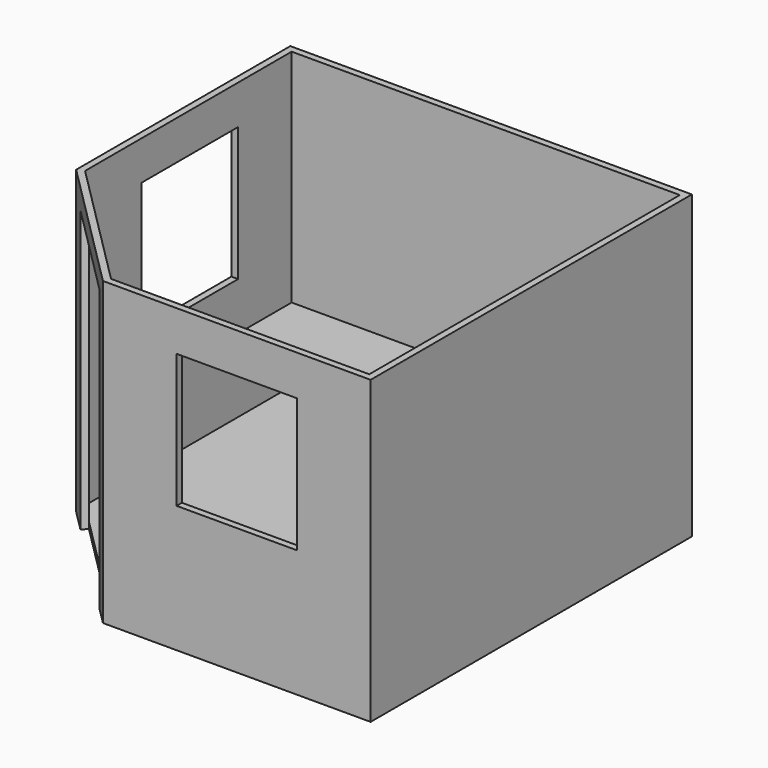
from build123d import *

# Parameters (mm, degrees)
F1_DEPTH  = 2200
F3_DEPTH  = 50
F4_W      = 1000
F4_H      = 2100
F5_DEPTH  = 50
F6_W      = 900
F6_H      = 1000
F7_DEPTH  = 50
F8_W      = 900
F8_H      = 1000
F9_DEPTH  = 50
F10_W     = 2900
F10_H     = 50
F11_DEPTH = 600


with BuildPart() as f1:
    # F0 (on Top) → F1 (new body)
    with BuildSketch(Plane.XY):
        Polygon((-66.648518, 1066.648518), (933.351482, 66.648518), (2933.351482, 66.648518), (2933.351482, 3066.648518), (-66.648518, 3066.648518), align=None)
        Polygon((2883.351482, 3016.648518), (2883.351482, 116.648518), (954.06216, 116.648518), (-16.648518, 1087.359196), (-16.648518, 3016.648518), align=None, mode=Mode.SUBTRACT)
    extrude(amount=F1_DEPTH)

    # F2 (on face) → F3 (join)
    with BuildSketch(Plane(origin=(0, 0, 0), x_dir=(1, 0, 0), z_dir=(0, 0, -1))):
        Polygon((2933.351482, -3066.648518), (2933.351482, -66.648518), (933.351482, -66.648518), (-66.648518, -1066.648518), (-66.648518, -3066.648518), align=None)
    extrude(amount=F3_DEPTH)

    # F4 (on face) → F5 (cut)
    with BuildSketch(Plane(origin=(500, 500, 0), x_dir=(0.707107, -0.707107, 0), z_dir=(-0.707107, -0.707107, 0))):
        with Locations((-76.362019, 1000)):
            Rectangle(F4_W, F4_H)
    extrude(amount=-F5_DEPTH, mode=Mode.SUBTRACT)

    # F6 (on face) → F7 (cut)
    with BuildSketch(Plane.XZ.offset(-66.648518)):
        with Locations((1933.351482, 1399.802713)):
            Rectangle(F6_W, F6_H)
    extrude(amount=-F7_DEPTH, mode=Mode.SUBTRACT)

    # F8 (on face) → F9 (cut)
    with BuildSketch(Plane(origin=(-66.648518, 0, 0), x_dir=(0, -1, 0), z_dir=(-1, 0, 0))):
        with Locations((-2066.648518, 1407.559663)):
            Rectangle(F8_W, F8_H)
    extrude(amount=-F9_DEPTH, mode=Mode.SUBTRACT)

    # F10 (on face) → F11 (join)
    with BuildSketch(Plane.XZ.offset(-3016.648518)):
        with Locations((1433.351482, 525)):
            Rectangle(F10_W, F10_H)
    extrude(amount=F11_DEPTH)


solid = f1.part
